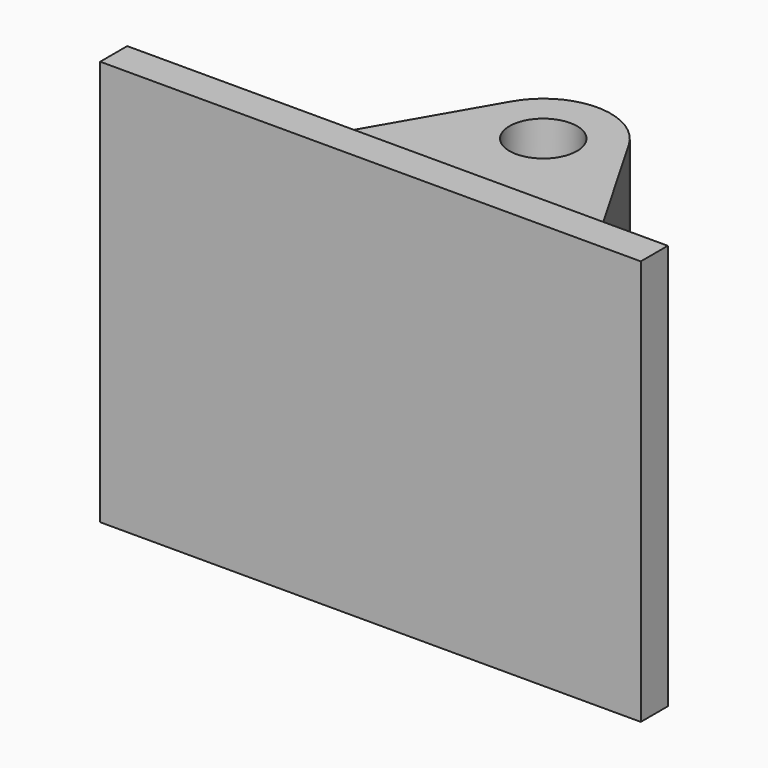
from build123d import *

# Parameters (mm, degrees)
F0_W     = 4
F0_H     = 3
F1_DEPTH = 0.25
F2_R     = 0.25
F3_DEPTH = 1
F4_W     = 2.05637
F4_H     = 0.5
F5_DEPTH = 12.5


with BuildPart() as f1:
    # F0 (on Front) → F1 (new body)
    with BuildSketch(Plane.XZ):
        Rectangle(F0_W, F0_H)
    extrude(amount=F1_DEPTH)

    # F2 (on Top) → F3 (join, symmetric)
    with BuildSketch(Plane.XY):
        with BuildLine():
            Line((-1.5, -0.25), (1.5, -0.25))
            Line((1.5, -0.25), (0.433013, 1.598076))
            ThreePointArc((0.433013, 1.598076), (0, 1.848076), (-0.433013, 1.598076))
            Line((-0.433013, 1.598076), (-1.5, -0.25))
        make_face()
        with Locations((0, 1.348076)):
            Circle(F2_R, mode=Mode.SUBTRACT)
    extrude(amount=F3_DEPTH, both=True)

    # F4 (on Right) → F5 (cut, symmetric)
    with BuildSketch(Plane.YZ):
        with Locations((1.028185, -0.006711)):
            Rectangle(F4_W, F4_H)
    extrude(amount=F5_DEPTH, both=True, mode=Mode.SUBTRACT)


solid = f1.part
